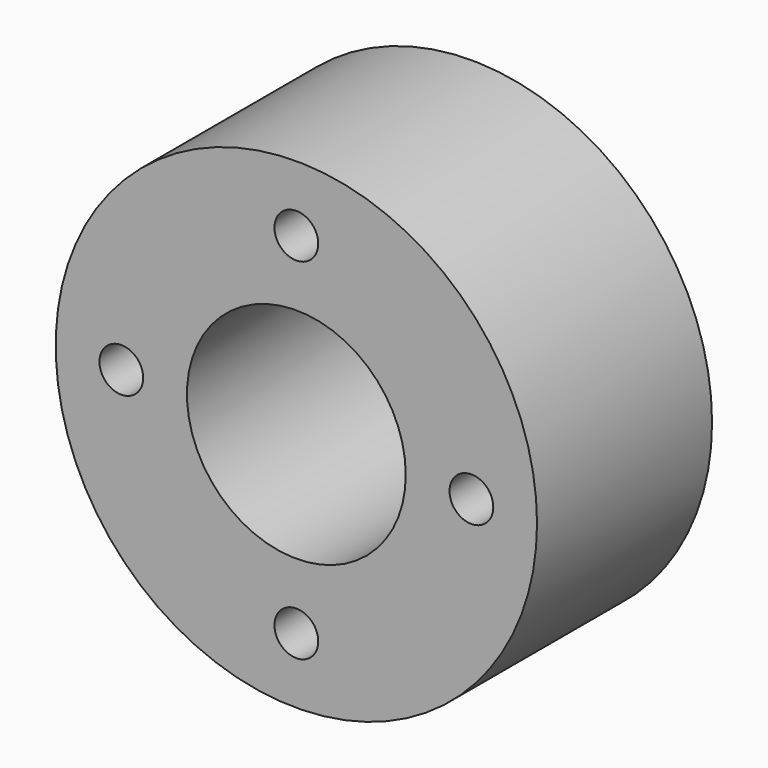
from build123d import *

# Parameters (mm, degrees)
F0_R     = 11
F1_DEPTH = 10
F2_R     = 5
F3_DEPTH = 25
F4_R     = 1
F5_DEPTH = 25


with BuildPart() as f1:
    # F0 (on Front) → F1 (new body)
    with BuildSketch(Plane.XZ):
        Circle(F0_R)
    extrude(amount=F1_DEPTH)

    # F2 (on face) → F3 (cut)
    with BuildSketch(Plane.XZ.offset(10)):
        Circle(F2_R)
    extrude(amount=-F3_DEPTH, mode=Mode.SUBTRACT)

    # F4 (on face) → F5 (cut)
    with BuildSketch(Plane.XZ.offset(10)):
        with Locations((-8, 0)):
            Circle(F4_R)
        with Locations((0, 8)):
            Circle(F4_R)
        with Locations((8, 0)):
            Circle(F4_R)
        with Locations((0, -8)):
            Circle(F4_R)
    extrude(amount=-F5_DEPTH, mode=Mode.SUBTRACT)


solid = f1.part
